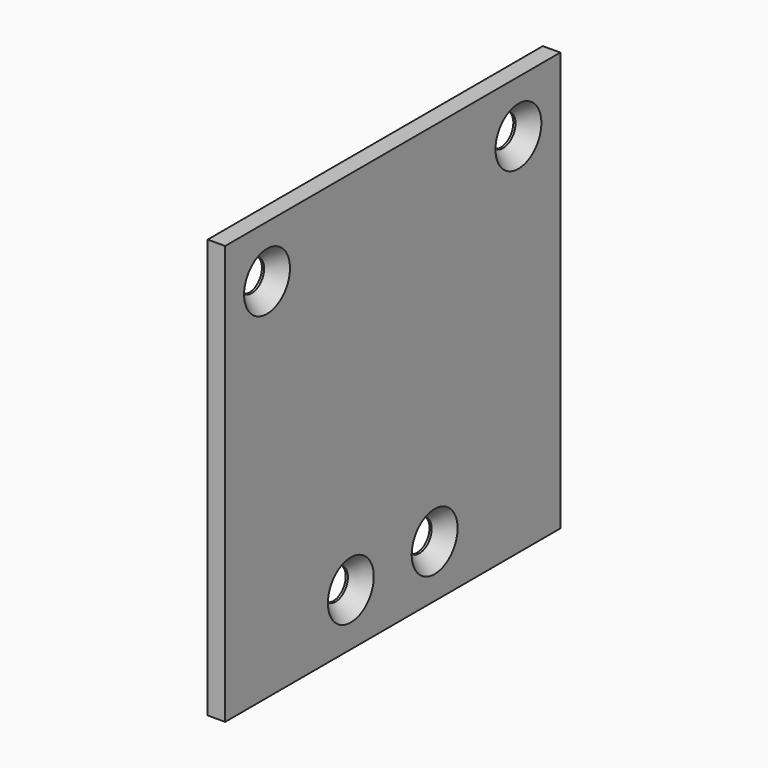
from build123d import *

# Parameters (mm, degrees)
F0_W           = 76.2
F0_H           = 76.2
F1_DEPTH       = 3.175
F3_D           = 5.6134
F3_CSINK_D     = 10.4394
F3_CSINK_ANGLE = 82


with BuildPart() as f1:
    # F0 (on Right) → F1 (new body)
    with BuildSketch(Plane.YZ):
        Rectangle(F0_W, F0_H)
    extrude(amount=F1_DEPTH)

    # F3 (through all)
    with Locations(Plane.YZ.offset(3.175)):
        with Locations((-28.575, 28.575), (28.575, 28.575), (9.525, -28.575), (-9.525, -28.575)):
            CounterSinkHole(F3_D / 2, F3_CSINK_D / 2, counter_sink_angle=F3_CSINK_ANGLE)


solid = f1.part
